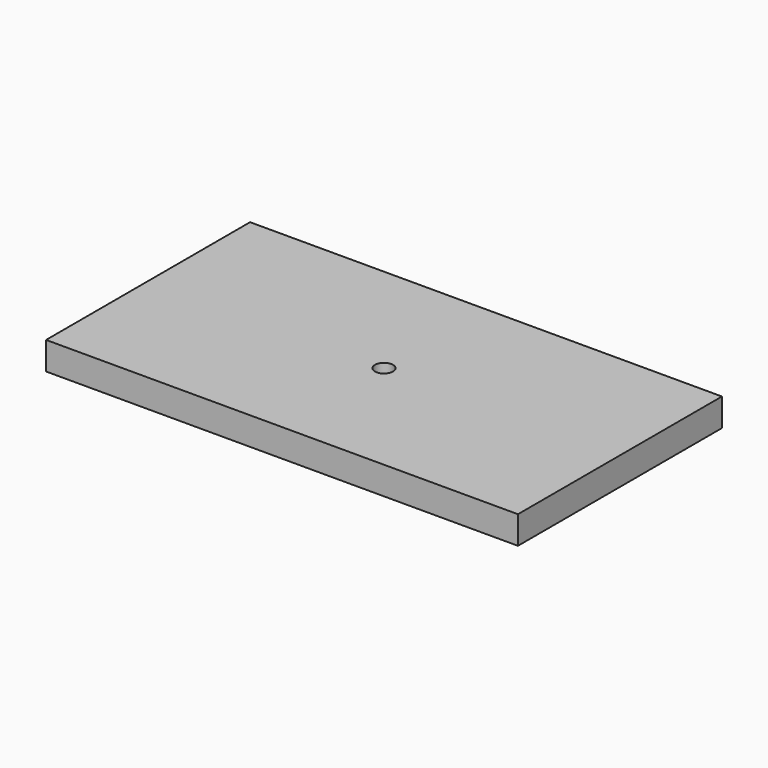
from build123d import *

# Parameters (mm, degrees)
F0_W     = 169.565908
F0_H     = 91.625672
F0_R     = 3.25
F1_DEPTH = 10
F2_R     = 3.25
F3_DEPTH = 3
F4_R     = 5


with BuildPart() as f1:
    # F0 (on Top) → F1 (new body)
    with BuildSketch(Plane.XY):
        Rectangle(F0_W, F0_H)
        Circle(F0_R, mode=Mode.SUBTRACT)
    extrude(amount=F1_DEPTH)

    # F2 (on face) → F3 (cut)
    with BuildSketch(Plane.XY):
        with BuildLine():
            ThreePointArc((-5.5, 0), (0, 5.5), (5.5, 0))
            Line((5.5, 0), (5.5, 16))
            Line((5.5, 16), (0, 16))
            Line((0, 16), (-5.5, 16))
            Line((-5.5, 16), (-5.5, 0))
        make_face()
        with BuildLine():
            ThreePointArc((-5.5, 0), (0, -5.5), (5.5, 0))
            ThreePointArc((5.5, 0), (0, 5.5), (-5.5, 0))
        make_face()
        Circle(F2_R, mode=Mode.SUBTRACT)
    extrude(amount=F3_DEPTH, mode=Mode.SUBTRACT)

    # F4
    f4_edges = [f1.edges().sort_by_distance(p)[0] for p in [
        (5.5, 16, 1.5),
        (-5.5, 16, 1.5),
    ]]
    fillet(f4_edges, radius=F4_R)


solid = f1.part
